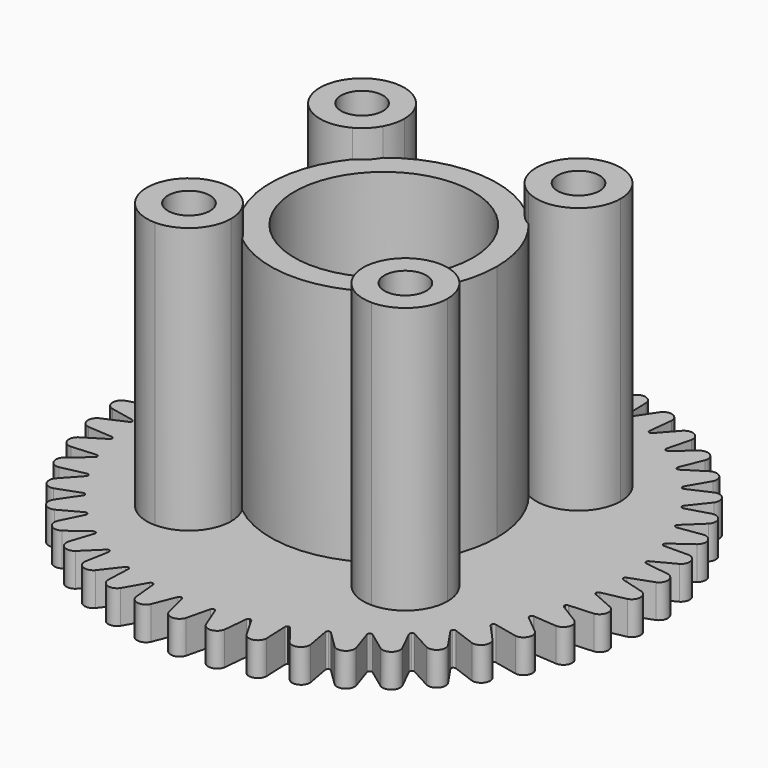
from build123d import *

# Parameters (mm, degrees)
F0_R     = 0.945
F0_R_2   = 4.025
F1_DEPTH = 12
F2_R     = 11.9
F3_DEPTH = 1.5
F4_R     = 12.2652949539
F4_R_2   = 11.9
F5_DEPTH = 13.501
F6_R     = 4.025
F6_R_2   = 0.945
F7_DEPTH = 1.25
F8_R     = 4.025
F9_DEPTH = 1.501


with BuildPart() as f1:
    # F0 (on Top) → F1 (new body)
    with BuildSketch(Plane.XY):
        with BuildLine():
            ThreePointArc((-2.975, 4.875), (-3.5314971157, 6.2185028843), (-4.875, 6.775))
            ThreePointArc((-4.875, 6.775), (-6.2185028843, 6.2185028843), (-6.775, 4.875))
            ThreePointArc((-6.775, 4.875), (-5.8451586479, 3.2413561594), (-3.9657450549, 3.2066908426))
            ThreePointArc((-3.9657450549, 3.2066908426), (-3.6062445841, 3.6062445841), (-3.2066908426, 3.9657450549))
            ThreePointArc((-3.2066908426, 3.9657450549), (-3.0338336035, 4.405845121), (-2.975, 4.875))
        make_face()
        with Locations((-4.875, 4.875)):
            Circle(F0_R, mode=Mode.SUBTRACT)
        with BuildLine():
            ThreePointArc((6.775, 4.875), (6.2185028843, 6.2185028843), (4.875, 6.775))
            ThreePointArc((4.875, 6.775), (3.2413561594, 5.8451586479), (3.2066908426, 3.9657450549))
            ThreePointArc((3.2066908426, 3.9657450549), (3.6062445841, 3.6062445841), (3.9657450549, 3.2066908426))
            ThreePointArc((3.9657450549, 3.2066908426), (5.8451586479, 3.2413561594), (6.775, 4.875))
        make_face()
        with Locations((4.875, 4.875)):
            Circle(F0_R, mode=Mode.SUBTRACT)
        with BuildLine():
            ThreePointArc((4.875, -6.775), (6.2185028843, -6.2185028843), (6.775, -4.875))
            ThreePointArc((6.775, -4.875), (5.8451586479, -3.2413561594), (3.9657450549, -3.2066908426))
            ThreePointArc((3.9657450549, -3.2066908426), (3.6062445841, -3.6062445841), (3.2066908426, -3.9657450549))
            ThreePointArc((3.2066908426, -3.9657450549), (3.2413561594, -5.8451586479), (4.875, -6.775))
        make_face()
        with Locations((4.875, -4.875)):
            Circle(F0_R, mode=Mode.SUBTRACT)
        with BuildLine():
            ThreePointArc((-3.9657450549, -3.2066908426), (-5.8451586479, -3.2413561594), (-6.775, -4.875))
            ThreePointArc((-6.775, -4.875), (-6.2185028843, -6.2185028843), (-4.875, -6.775))
            ThreePointArc((-4.875, -6.775), (-3.5314971157, -6.2185028843), (-2.975, -4.875))
            ThreePointArc((-2.975, -4.875), (-3.0338336035, -4.405845121), (-3.2066908426, -3.9657450549))
            ThreePointArc((-3.2066908426, -3.9657450549), (-3.6062445841, -3.6062445841), (-3.9657450549, -3.2066908426))
        make_face()
        with Locations((-4.875, -4.875)):
            Circle(F0_R, mode=Mode.SUBTRACT)
        with BuildLine():
            ThreePointArc((-3.2066908426, 3.9657450549), (-3.5314971157, 3.5314971157), (-3.9657450549, 3.2066908426))
            ThreePointArc((-3.9657450549, 3.2066908426), (-5.1, 0), (-3.9657450549, -3.2066908426))
            ThreePointArc((-3.9657450549, -3.2066908426), (-3.5314971157, -3.5314971157), (-3.2066908426, -3.9657450549))
            ThreePointArc((-3.2066908426, -3.9657450549), (0, -5.1), (3.2066908426, -3.9657450549))
            ThreePointArc((3.2066908426, -3.9657450549), (3.5314971157, -3.5314971157), (3.9657450549, -3.2066908426))
            ThreePointArc((3.9657450549, -3.2066908426), (4.8080817266, -1.7006910684), (5.1, 0))
            ThreePointArc((5.1, 0), (4.8080817266, 1.7006910684), (3.9657450549, 3.2066908426))
            ThreePointArc((3.9657450549, 3.2066908426), (3.5314971157, 3.5314971157), (3.2066908426, 3.9657450549))
            ThreePointArc((3.2066908426, 3.9657450549), (0, 5.1), (-3.2066908426, 3.9657450549))
        make_face()
        Circle(F0_R_2, mode=Mode.SUBTRACT)
        with BuildLine():
            ThreePointArc((-3.2066908426, 3.9657450549), (-3.6062445841, 3.6062445841), (-3.9657450549, 3.2066908426))
            ThreePointArc((-3.9657450549, 3.2066908426), (-3.5314971157, 3.5314971157), (-3.2066908426, 3.9657450549))
        make_face()
        with BuildLine():
            ThreePointArc((3.9657450549, 3.2066908426), (3.6062445841, 3.6062445841), (3.2066908426, 3.9657450549))
            ThreePointArc((3.2066908426, 3.9657450549), (3.5314971157, 3.5314971157), (3.9657450549, 3.2066908426))
        make_face()
        with BuildLine():
            ThreePointArc((3.2066908426, -3.9657450549), (3.6062445841, -3.6062445841), (3.9657450549, -3.2066908426))
            ThreePointArc((3.9657450549, -3.2066908426), (3.5314971157, -3.5314971157), (3.2066908426, -3.9657450549))
        make_face()
        with BuildLine():
            ThreePointArc((-3.2066908426, -3.9657450549), (-3.5314971157, -3.5314971157), (-3.9657450549, -3.2066908426))
            ThreePointArc((-3.9657450549, -3.2066908426), (-3.6062445841, -3.6062445841), (-3.2066908426, -3.9657450549))
        make_face()
    extrude(amount=F1_DEPTH)

    # F6 (on face) → F7 (cut)
    with BuildSketch(Plane.XY.offset(12)):
        with BuildLine():
            ThreePointArc((-3.2066908426, 3.9657450549), (-3.5314971157, 3.5314971157), (-3.9657450549, 3.2066908426))
            ThreePointArc((-3.9657450549, 3.2066908426), (-5.1, 0), (-3.9657450549, -3.2066908426))
            ThreePointArc((-3.9657450549, -3.2066908426), (-3.5314971157, -3.5314971157), (-3.2066908426, -3.9657450549))
            ThreePointArc((-3.2066908426, -3.9657450549), (0, -5.1), (3.2066908426, -3.9657450549))
            ThreePointArc((3.2066908426, -3.9657450549), (3.5314971157, -3.5314971157), (3.9657450549, -3.2066908426))
            ThreePointArc((3.9657450549, -3.2066908426), (5.1, 0), (3.9657450549, 3.2066908426))
            ThreePointArc((3.9657450549, 3.2066908426), (3.5314971157, 3.5314971157), (3.2066908426, 3.9657450549))
            ThreePointArc((3.2066908426, 3.9657450549), (0, 5.1), (-3.2066908426, 3.9657450549))
        make_face()
        Circle(F6_R, mode=Mode.SUBTRACT)
        with Locations((4.875, -4.875)):
            Circle(F6_R_2)
        with Locations((-4.875, -4.875)):
            Circle(F6_R_2)
        with Locations((-4.875, 4.875)):
            Circle(F6_R_2)
        with Locations((4.875, 4.875)):
            Circle(F6_R_2)
    extrude(amount=-F7_DEPTH, mode=Mode.SUBTRACT)


with BuildPart() as f3:
    # F2 (on face) → F3 (new body)
    with BuildSketch(Plane(origin=(0, 0, 0), x_dir=(1, 0, 0), z_dir=(0, 0, -1))):
        Circle(F2_R)
    extrude(amount=F3_DEPTH)

    # F4 (on face) → F5 (cut, through all)
    with BuildSketch(Plane(origin=(0, 0, -1.5), x_dir=(1, 0, 0), z_dir=(0, 0, -1))):
        Circle(F4_R)
        Circle(F4_R_2, mode=Mode.SUBTRACT)
        Circle(F4_R_2)
        with BuildLine():
            ThreePointArc((-0.8370743463, 10.5468031706), (-0.7943829694, 10.4973360796), (-0.7325650276, 10.4761679709))
            ThreePointArc((-0.7325650276, 10.4761679709), (-0.674294725, 10.5057334677), (-0.6389033061, 10.5606606397))
            Line((-0.6389033061, 10.5606606397), (-0.634802172, 10.5775341683))
            Line((-0.634802172, 10.5775341683), (-0.3812572284, 11.6207085161))
            ThreePointArc((-0.3812572284, 11.6207085161), (0.0009931521, 11.8979200939), (0.3817666741, 11.6186833894))
            Line((0.3817666741, 11.6186833894), (0.6389033061, 10.5606606397))
            ThreePointArc((0.6389033061, 10.5606606397), (0.674294725, 10.5057334677), (0.7325650276, 10.4761679709))
            ThreePointArc((0.7325650276, 10.4761679709), (0.7943829694, 10.4973360796), (0.8370743463, 10.5468031706))
            Line((0.8370743463, 10.5468031706), (0.8434839098, 10.5629417197))
            Line((0.8434839098, 10.5629417197), (1.2397431803, 11.5606773304))
            ThreePointArc((1.2397431803, 11.5606773304), (1.6568539212, 11.7819921333), (1.9950595435, 11.4524795094))
            Line((1.9950595435, 11.4524795094), (2.1024454325, 10.3689668619))
            ThreePointArc((2.1024454325, 10.3689668619), (2.1298480397, 10.3096487039), (2.1834365378, 10.2722612778))
            ThreePointArc((2.1834365378, 10.2722612778), (2.247598903, 10.2846199853), (2.2967592988, 10.3276641746))
            Line((2.2967592988, 10.3276641746), (2.3053525367, 10.3427536257))
            Line((2.3053525367, 10.3427536257), (2.8366133982, 11.2756307105))
            ThreePointArc((2.8366133982, 11.2756307105), (3.2804659135, 11.4367410977), (3.5695208482, 11.0633661428))
            Line((3.5695208482, 11.0633661428), (3.52506585, 9.9754529388))
            ThreePointArc((3.52506585, 9.9754529388), (3.5439462849, 9.9128983552), (3.5918099394, 9.8684167035))
            ThreePointArc((3.5918099394, 9.8684167035), (3.6570678805, 9.8717254615), (3.7117404441, 9.9075089431))
            Line((3.7117404441, 9.9075089431), (3.7223500989, 9.921255597))
            Line((3.7223500989, 9.921255597), (4.3782721628, 10.7711167647))
            ThreePointArc((4.3782721628, 10.7711167647), (4.8402273681, 10.8688869058), (5.0745054898, 10.4589169387))
            Line((5.0745054898, 10.4589169387), (4.8790748704, 9.3877781711))
            ThreePointArc((4.8790748704, 9.3877781711), (4.8890656469, 9.3232047157), (4.9302728462, 9.2724946232))
            ThreePointArc((4.9302728462, 9.2724946232), (4.9953561916, 9.2666890305), (5.0544767836, 9.2945153195))
            Line((5.0544767836, 9.2945153195), (5.0668963504, 9.3066516134))
            Line((5.0668963504, 9.3066516134), (5.83471284, 10.056955283))
            ThreePointArc((5.83471284, 10.056955283), (6.3057793028, 10.0894821934), (6.4807206542, 9.6508968131))
            Line((6.4807206542, 9.6508968131), (6.1381182484, 8.6173809797))
            ThreePointArc((6.1381182484, 8.6173809797), (6.1390249072, 8.5520455014), (6.1727736001, 8.4960939823))
            ThreePointArc((6.1727736001, 8.4960939823), (6.2364155765, 8.4812870383), (6.2988334819, 8.5006145276))
            Line((6.2988334819, 8.5006145276), (6.3128212281, 8.5109042423))
            Line((6.3128212281, 8.5109042423), (7.1775874687, 9.1470466064))
            ThreePointArc((7.1775874687, 9.1470466064), (7.648596416, 9.1136971867), (7.7607959629, 8.6550329589))
            Line((7.7607959629, 8.6550329589), (7.2776901366, 7.6792562697))
            ThreePointArc((7.2776901366, 7.6792562697), (7.2694950308, 7.6144304493), (7.2951283373, 7.5543265363))
            ThreePointArc((7.2951283373, 7.5543265363), (7.3560902261, 7.5308064412), (7.4205905514, 7.5412589433))
            Line((7.4205905514, 7.5412589433), (7.4358742212, 7.5495018012))
            Line((7.4358742212, 7.5495018012), (8.3807585217, 8.0591010721))
            ThreePointArc((8.3807585217, 8.0591010721), (8.8425423002, 7.960524431), (8.8898162058, 7.490708733))
            Line((8.8898162058, 7.490708733), (8.2756100646, 6.5916635714))
            ThreePointArc((8.2756100646, 6.5916635714), (8.2584727026, 6.5286091697), (8.2754916995, 6.4655227171))
            ThreePointArc((8.2754916995, 6.4655227171), (8.3325869469, 6.4337472629), (8.3979142665, 6.4351213317))
            Line((8.3979142665, 6.4351213317), (8.4141963808, 6.4411568949))
            Line((8.4141963808, 6.4411568949), (9.420807643, 6.8142943026))
            ThreePointArc((9.420807643, 6.8142943026), (9.8643781567, 6.6524091222), (9.8458062884, 6.1805863822))
            Line((9.8458062884, 6.1805863822), (9.1124546561, 5.3757716397))
            ThreePointArc((9.1124546561, 5.3757716397), (9.086708597, 5.3157159388), (9.0947820291, 5.2508748527))
            ThreePointArc((9.0947820291, 5.2508748527), (9.1468993409, 5.2114625124), (9.2117821329, 5.2037314032))
            Line((9.2117821329, 5.2037314032), (9.2287457789, 5.2074421964))
            Line((9.2287457789, 5.2074421964), (10.2774914596, 5.4368550457))
            ThreePointArc((10.2774914596, 5.4368550457), (10.6942151129, 5.2148122368), (10.610158951, 4.7501659478))
            Line((10.610158951, 4.7501659478), (9.7719356829, 4.0552464278))
            ThreePointArc((9.7719356829, 4.0552464278), (9.7380820446, 3.9993583438), (9.7370527715, 3.934024682))
            ThreePointArc((9.7370527715, 3.934024682), (9.7831777436, 3.887742572), (9.8463531384, 3.8710567621))
            Line((9.8463531384, 3.8710567621), (9.8636681379, 3.8723705589))
            Line((9.8636681379, 3.8723705589), (10.9341355954, 3.9535935896))
            ThreePointArc((10.9341355954, 3.9535935896), (11.3159013365, 3.675714963), (11.1679969384, 3.2272889364))
            Line((11.1679969384, 3.2272889364), (10.2412170971, 2.6557904569))
            ThreePointArc((10.2412170971, 2.6557904569), (10.1999148021, 2.6051577877), (10.1898028576, 2.5406031958))
            ThreePointArc((10.1898028576, 2.5406031958), (10.2290377198, 2.4883521447), (10.2892760801, 2.4630364043))
            Line((10.2892760801, 2.4630364043), (10.3066054164, 2.4619276332))
            Line((10.3066054164, 2.4619276332), (11.3779592192, 2.3933799314))
            ThreePointArc((11.3779592192, 2.3933799314), (11.7173364122, 2.0650740784), (11.5084625689, 1.6415964169))
            Line((11.5084625689, 1.6415964169), (10.5111648697, 1.2046425457))
            ThreePointArc((10.5111648697, 1.2046425457), (10.4632178202, 1.1602507987), (10.4442200217, 1.0977317583))
            ThreePointArc((10.4442200217, 1.0977317583), (10.4758011122, 1.0405287734), (10.5319299667, 1.0070758447))
            Line((10.5319299667, 1.0070758447), (10.548936344, 1.0035660865))
            Line((10.548936344, 1.0035660865), (11.6003238091, 0.7865818553))
            ThreePointArc((11.6003238091, 0.7865818553), (11.8907068629, 0.414238876), (11.6249290662, 0.0239520904))
            Line((11.6249290662, 0.0239520904), (10.5765247744, -0.2699523623))
            ThreePointArc((10.5765247744, -0.2699523623), (10.5228662052, -0.3072391524), (10.4953523232, -0.3665057792))
            ThreePointArc((10.4953523232, -0.3665057792), (10.5186649519, -0.4275473069), (10.5695918165, -0.4684863008))
            Line((10.5695918165, -0.4684863008), (10.5859442249, -0.4743287325))
            Line((10.5859442249, -0.4743287325), (11.5969012911, -0.8355261419))
            ThreePointArc((11.5969012911, -0.8355261419), (11.83263823, -1.244659015), (11.5151295423, -1.5941584362))
            Line((11.5151295423, -1.5941584362), (10.4360246549, -1.7392929547))
            ThreePointArc((10.4360246549, -1.7392929547), (10.3776989691, -1.7687490429), (10.3422045301, -1.8236096987))
            ThreePointArc((10.3422045301, -1.8236096987), (10.3567949431, -1.8873016652), (10.4015285842, -1.9349298933))
            Line((10.4015285842, -1.9349298933), (10.4169087429, -1.9429912822))
            Line((10.4169087429, -1.9429912822), (11.3677582809, -2.4413715731))
            ThreePointArc((11.3677582809, -2.4413715731), (11.5442607534, -2.879331034), (11.1812011202, -3.1812404823))
            Line((11.1812011202, -3.1812404823), (10.0923991864, -3.1747801882))
            ThreePointArc((10.0923991864, -3.1747801882), (10.030541627, -3.1958322451), (9.9877574898, -3.2452191296))
            ThreePointArc((9.9877574898, -3.2452191296), (9.9933417015, -3.3103218434), (10.0310114297, -3.3637122764))
            Line((10.0310114297, -3.3637122764), (10.0451199812, -3.3738357168))
            Line((10.0451199812, -3.3738357168), (10.9173547863, -3.9996984837))
            ThreePointArc((10.9173547863, -3.9996984837), (11.0311873726, -4.4579601497), (10.6296433367, -4.7064033009))
            Line((10.6296433367, -4.7064033009), (9.5523366476, -4.5484739365))
            ThreePointArc((9.5523366476, -4.5484739365), (9.4881512017, -4.5607122079), (9.4389101109, -4.6036640616))
            ThreePointArc((9.4389101109, -4.6036640616), (9.4353794309, -4.6689103723), (9.4652520478, -4.7270238262))
            Line((9.4652520478, -4.7270238262), (9.4778143852, -4.7390122768))
            Line((9.4778143852, -4.7390122768), (10.2544573991, -5.4801758129))
            ThreePointArc((10.2544573991, -5.4801758129), (10.3034044774, -5.9498201419), (9.8711916367, -6.1399613328))
            Line((9.8711916367, -6.1399613328), (8.8263487416, -5.8336368135))
            ThreePointArc((8.8263487416, -5.8336368135), (8.7610847059, -5.8368230954), (8.7063450833, -5.8725039093))
            ThreePointArc((8.7063450833, -5.8725039093), (8.6937682323, -5.9366238717), (8.7152623013, -5.9983292341))
            Line((8.7152623013, -5.9983292341), (8.7260339131, -6.0119493534))
            Line((8.7260339131, -6.0119493534), (9.3919686629, -6.8539877535))
            ThreePointArc((9.3919686629, -6.8539877535), (9.375077534, -7.3258736528), (8.9206084198, -7.4540120014))
            Line((8.9206084198, -7.4540120014), (7.9285659972, -7.0052545856))
            ThreePointArc((7.9285659972, -7.0052545856), (7.8634936618, -6.9993268605), (7.804320952, -7.0270421482))
            ThreePointArc((7.804320952, -7.0270421482), (7.782942724, -7.0887877401), (7.7956398876, -7.1528839865))
            Line((7.7956398876, -7.1528839865), (7.8044111165, -7.1678706743))
            Line((7.8044111165, -7.1678706743), (8.3466759399, -8.0943946188))
            ThreePointArc((8.3466759399, -8.0943946188), (8.2642753704, -8.5593373662), (7.796395707, -8.6229788053))
            Line((7.796395707, -8.6229788053), (6.8764627343, -8.0405230455))
            ThreePointArc((6.8764627343, -8.0405230455), (6.8128486582, -8.0255966899), (6.7503945907, -8.0448070048))
            ThreePointArc((6.7503945907, -8.0448070048), (6.7206310886, -8.1029764186), (6.7242842109, -8.1682159883))
            Line((6.7242842109, -8.1682159883), (6.730884335, -8.1842775459))
            Line((6.730884335, -8.1842775459), (7.1389246639, -9.1772533))
            ThreePointArc((7.1389246639, -9.1772533), (6.9926184872, -9.6262033138), (6.5204350201, -9.6241091351))
            Line((6.5204350201, -9.6241091351), (5.690516946, -8.9192918703))
            ThreePointArc((5.690516946, -8.9192918703), (5.629599305, -8.8956574088), (5.565079477, -8.905988844))
            ThreePointArc((5.565079477, -8.905988844), (5.5275100136, -8.9594498782), (5.5220479908, -9.0245629572))
            Line((5.5220479908, -9.0245629572), (5.5263485462, -9.0413867645))
            Line((5.5263485462, -9.0413867645), (5.7922223398, -10.0814871848))
            ThreePointArc((5.7922223398, -10.0814871848), (5.5848582391, -10.5057061636), (5.1175614824, -10.437917128))
            Line((5.1175614824, -10.437917128), (4.3938117183, -9.6244568244))
            ThreePointArc((4.3938117183, -9.6244568244), (4.3367762049, -9.5925742748), (4.2714464216, -9.5938257407))
            ThreePointArc((4.2714464216, -9.5938257407), (4.2268022437, -9.641537837), (4.2123313877, -9.7052570734))
            Line((4.2123313877, -9.7052570734), (4.214248669, -9.7225156742))
            Line((4.214248669, -9.7225156742), (4.3327809964, -10.789496389))
            ThreePointArc((4.3327809964, -10.789496389), (4.0683950781, -11.1807273929), (3.6150804315, -11.0485629369))
            Line((3.6150804315, -11.0485629369), (3.0115859434, -10.142292674))
            ThreePointArc((3.0115859434, -10.142292674), (2.959542689, -10.102782594), (2.8946745202, -10.0949297321))
            ThreePointArc((2.8946745202, -10.0949297321), (2.843824576, -10.135964229), (2.8206265457, -10.1970494002))
            Line((2.8206265457, -10.1970494002), (2.8201232351, -10.2144068755))
            Line((2.8201232351, -10.2144068755), (2.7890069993, -11.2875003189))
            ThreePointArc((2.7890069993, -11.2875003189), (2.4727452346, -11.6381284815), (2.0422359522, -11.4441610357))
            Line((2.0422359522, -11.4441610357), (1.5707430738, -10.4627203335))
            ThreePointArc((1.5707430738, -10.4627203335), (1.5247050411, -10.4163517417), (1.461561072, -10.3995473992))
            ThreePointArc((1.461561072, -10.3995473992), (1.4054950978, -10.4331056067), (1.3740214164, -10.4903677594))
            Line((1.3740214164, -10.4903677594), (1.3711073103, -10.5074862657))
            Line((1.3711073103, -10.5074862657), (1.1909481534, -11.5658058944))
            ThreePointArc((1.1909481534, -11.5658058944), (0.8289662178, -11.8690066373), (0.4296416731, -11.6170115576))
            Line((0.4296416731, -11.6170115576), (0.0993274769, -10.5795030428))
            ThreePointArc((0.0993274769, -10.5795030428), (0.0601907438, -10.5271784512), (0, -10.5017497054))
            ThreePointArc((0, -10.5017497054), (-0.0601907438, -10.5271784512), (-0.0993274769, -10.5795030428))
            Line((-0.0993274769, -10.5795030428), (-0.1045956586, -10.5960493878))
            Line((-0.1045956586, -10.5960493878), (-0.4302911436, -11.618996214))
            ThreePointArc((-0.4302911436, -11.618996214), (-0.8309476835, -11.8688680797), (-1.1913150925, -11.5637501636))
            Line((-1.1913150925, -11.5637501636), (-1.3740214164, -10.4903677594))
            ThreePointArc((-1.3740214164, -10.4903677594), (-1.4054950978, -10.4331056067), (-1.461561072, -10.3995473992))
            ThreePointArc((-1.461561072, -10.3995473992), (-1.5247050411, -10.4163517417), (-1.5707430738, -10.4627203335))
            Line((-1.5707430738, -10.4627203335), (-1.5782627921, -10.4783724613))
            Line((-1.5782627921, -10.4783724613), (-2.0431553129, -11.4460359888))
            ThreePointArc((-2.0431553129, -11.4460359888), (-2.4746881333, -11.6377155056), (-2.7890842649, -11.2854135263))
            Line((-2.7890842649, -11.2854135263), (-2.8206265457, -10.1970494002))
            ThreePointArc((-2.8206265457, -10.1970494002), (-2.843824576, -10.135964229), (-2.8946745202, -10.0949297321))
            ThreePointArc((-2.8946745202, -10.0949297321), (-2.959542689, -10.102782594), (-3.0115859434, -10.142292674))
            Line((-3.0115859434, -10.142292674), (-3.0212108356, -10.1567459339))
            Line((-3.0212108356, -10.1567459339), (-3.6162517881, -11.0502916928))
            ThreePointArc((-3.6162517881, -11.0502916928), (-4.0702615935, -11.1800480369), (-4.3325670846, -10.7874191516))
            Line((-4.3325670846, -10.7874191516), (-4.2123313877, -9.7052570734))
            ThreePointArc((-4.2123313877, -9.7052570734), (-4.2268022437, -9.641537837), (-4.2714464216, -9.5938257407))
            ThreePointArc((-4.2714464216, -9.5938257407), (-4.3367762049, -9.5925742748), (-4.3938117183, -9.6244568244))
            Line((-4.3938117183, -9.6244568244), (-4.4053544467, -9.6374299001))
            Line((-4.4053544467, -9.6374299001), (-5.1189620357, -10.4394660384))
            ThreePointArc((-5.1189620357, -10.4394660384), (-5.5866120416, -10.5047736502), (-5.7917214143, -10.0794599337))
            Line((-5.7917214143, -10.0794599337), (-5.5220479908, -9.0245629572))
            ThreePointArc((-5.5220479908, -9.0245629572), (-5.5275100136, -8.9594498782), (-5.565079477, -8.905988844))
            ThreePointArc((-5.565079477, -8.905988844), (-5.629599305, -8.8956574088), (-5.690516946, -8.9192918703))
            Line((-5.690516946, -8.9192918703), (-5.7037528445, -8.9305322556))
            Line((-5.7037528445, -8.9305322556), (-6.52203751, -9.6254480524))
            ThreePointArc((-6.52203751, -9.6254480524), (-6.994225441, -9.6250357935), (-7.1381464746, -9.1753154934))
            Line((-7.1381464746, -9.1753154934), (-6.7242842109, -8.1682159883))
            ThreePointArc((-6.7242842109, -8.1682159883), (-6.7206310886, -8.1029764186), (-6.7503945907, -8.0448070048))
            ThreePointArc((-6.7503945907, -8.0448070048), (-6.8128486582, -8.0255966899), (-6.8764627343, -8.0405230455))
            Line((-6.8764627343, -8.0405230455), (-6.8911341812, -8.0498119591))
            Line((-6.8911341812, -8.0498119591), (-7.7981689428, -8.6240816688))
            ThreePointArc((-7.7981689428, -8.6240816688), (-8.2657041981, -8.5579575634), (-8.3456356333, -8.0925839738))
            Line((-8.3456356333, -8.0925839738), (-7.7956398876, -7.1528839865))
            ThreePointArc((-7.7956398876, -7.1528839865), (-7.782942724, -7.0887877401), (-7.804320952, -7.0270421482))
            ThreePointArc((-7.804320952, -7.0270421482), (-7.8634936618, -6.9993268605), (-7.9285659972, -7.0052545856))
            Line((-7.9285659972, -7.0052545856), (-7.9443874295, -7.0124112294))
            Line((-7.9443874295, -7.0124112294), (-8.9225178875, -7.4548573452))
            ThreePointArc((-8.9225178875, -7.4548573452), (-9.376300425, -7.3243084238), (-9.3906864874, -6.8523395123))
            Line((-9.3906864874, -6.8523395123), (-8.7152623013, -5.9983292341))
            ThreePointArc((-8.7152623013, -5.9983292341), (-8.6937682323, -5.9366238717), (-8.7063450833, -5.8725039093))
            ThreePointArc((-8.7063450833, -5.8725039093), (-8.7610847059, -5.8368230954), (-8.8263487416, -5.8336368135))
            Line((-8.8263487416, -5.8336368135), (-8.8430122131, -5.8385218915))
            Line((-8.8430122131, -5.8385218915), (-9.8732001707, -6.1405327032))
            ThreePointArc((-9.8732001707, -6.1405327032), (-10.3043976295, -5.948099952), (-10.2529583108, -5.4787220566))
            Line((-10.2529583108, -5.4787220566), (-9.4652520478, -4.7270238262))
            ThreePointArc((-9.4652520478, -4.7270238262), (-9.4353794309, -4.6689103723), (-9.4389101109, -4.6036640616))
            ThreePointArc((-9.4389101109, -4.6036640616), (-9.4881512017, -4.5607122079), (-9.5523366476, -4.5484739365))
            Line((-9.5523366476, -4.5484739365), (-9.5695178228, -4.5509923663))
            Line((-9.5695178228, -4.5509923663), (-10.6317118432, -4.7066895769))
            ThreePointArc((-10.6317118432, -4.7066895769), (-11.0319314553, -4.4561184805), (-10.9156679632, -3.998467508))
            Line((-10.9156679632, -3.998467508), (-10.0310114297, -3.3637122764))
            ThreePointArc((-10.0310114297, -3.3637122764), (-9.9933417015, -3.3103218434), (-9.9877574898, -3.2452191296))
            ThreePointArc((-9.9877574898, -3.2452191296), (-10.030541627, -3.1958322451), (-10.0923991864, -3.1747801882))
            Line((-10.0923991864, -3.1747801882), (-10.1097636533, -3.1748829513))
            Line((-10.1097636533, -3.1748829513), (-11.1832893381, -3.1812360917))
            ThreePointArc((-11.1832893381, -3.1812360917), (-11.5447412839, -2.8774037316), (-11.3659165552, -2.4403873376))
            Line((-11.3659165552, -2.4403873376), (-10.4015285842, -1.9349298933))
            ThreePointArc((-10.4015285842, -1.9349298933), (-10.3567949431, -1.8873016652), (-10.3422045301, -1.8236096987))
            ThreePointArc((-10.3422045301, -1.8236096987), (-10.3776989691, -1.7687490429), (-10.4360246549, -1.7392929547))
            Line((-10.4360246549, -1.7392929547), (-10.4532344339, -1.7369780511))
            Line((-10.4532344339, -1.7369780511), (-11.5171968268, -1.5938634647))
            ThreePointArc((-11.5171968268, -1.5938634647), (-11.8328458554, -1.242683592), (-11.5949405099, -0.8348078035))
            Line((-11.5949405099, -0.8348078035), (-10.5695918165, -0.4684863008))
            ThreePointArc((-10.5695918165, -0.4684863008), (-10.5186649519, -0.4275473069), (-10.4953523232, -0.3665057792))
            ThreePointArc((-10.4953523232, -0.3665057792), (-10.5228662052, -0.3072391524), (-10.5765247744, -0.2699523623))
            Line((-10.5765247744, -0.2699523623), (-10.5932448966, -0.2652648489))
            Line((-10.5932448966, -0.2652648489), (-11.6269351798, 0.0245319018))
            ThreePointArc((-11.6269351798, 0.0245319018), (-11.8906375419, 0.4162239702), (-11.5982821366, 0.7870203148))
            Line((-11.5982821366, 0.7870203148), (-10.5319299667, 1.0070758447))
            ThreePointArc((-10.5319299667, 1.0070758447), (-10.4758011122, 1.0405287734), (-10.4442200217, 1.0977317583))
            ThreePointArc((-10.4442200217, 1.0977317583), (-10.4632178202, 1.1602507987), (-10.5111648697, 1.2046425457))
            Line((-10.5111648697, 1.2046425457), (-10.5270698971, 1.2116114319))
            Line((-10.5270698971, 1.2116114319), (-11.5103684651, 1.6424497826))
            ThreePointArc((-11.5103684651, 1.6424497826), (-11.7169914941, 2.0670302062), (-11.3758763944, 2.393529978))
            Line((-11.3758763944, 2.393529978), (-10.2892760801, 2.4630364043))
            ThreePointArc((-10.2892760801, 2.4630364043), (-10.2290377198, 2.4883521447), (-10.1898028576, 2.5406031958))
            ThreePointArc((-10.1898028576, 2.5406031958), (-10.1999148021, 2.6051577877), (-10.2412170971, 2.6557904569))
            Line((-10.2412170971, 2.6557904569), (-10.2559974563, 2.6649050743))
            Line((-10.2559974563, 2.6649050743), (-11.169765521, 3.2283992467))
            ThreePointArc((-11.169765521, 3.2283992467), (-11.3152875348, 3.6776040505), (-10.932052158, 3.9534523027))
            Line((-10.932052158, 3.9534523027), (-9.8463531384, 3.8710567621))
            ThreePointArc((-9.8463531384, 3.8710567621), (-9.7831777436, 3.887742572), (-9.7370527715, 3.934024682))
            ThreePointArc((-9.7370527715, 3.934024682), (-9.7380820446, 3.9993583438), (-9.7719356829, 4.0552464278))
            Line((-9.7719356829, 4.0552464278), (-9.7853036912, 4.0663293708))
            Line((-9.7853036912, 4.0663293708), (-10.6117557965, 4.7515115917))
            ThreePointArc((-10.6117557965, 4.7515115917), (-10.6933443745, 5.2165975151), (-10.2754479615, 5.4364251754))
            Line((-10.2754479615, 5.4364251754), (-9.2117821329, 5.2037314032))
            ThreePointArc((-9.2117821329, 5.2037314032), (-9.1468993409, 5.2114625124), (-9.0947820291, 5.2508748527))
            ThreePointArc((-9.0947820291, 5.2508748527), (-9.086708597, 5.3157159388), (-9.1124546561, 5.3757716397))
            Line((-9.1124546561, 5.3757716397), (-9.1241501202, 5.3886071914))
            Line((-9.1241501202, 5.3886071914), (-9.8472003161, 6.1821411684))
            ThreePointArc((-9.8472003161, 6.1821411684), (-9.8632674295, 6.6540558429), (-9.4188438585, 6.8135842158))
            Line((-9.4188438585, 6.8135842158), (-8.3979142665, 6.4351213317))
            ThreePointArc((-8.3979142665, 6.4351213317), (-8.3325869469, 6.4337472629), (-8.2754916995, 6.4655227171))
            ThreePointArc((-8.2754916995, 6.4655227171), (-8.2584727026, 6.5286091697), (-8.2756100646, 6.5916635714))
            Line((-8.2756100646, 6.5916635714), (-8.2854053458, 6.6060019025))
            Line((-8.2854053458, 6.6060019025), (-8.8909802825, 7.4924423992))
            ThreePointArc((-8.8909802825, 7.4924423992), (-8.8412132032, 7.9620005427), (-8.3789126735, 8.0581245898))
            Line((-8.3789126735, 8.0581245898), (-7.4205905514, 7.5412589433))
            ThreePointArc((-7.4205905514, 7.5412589433), (-7.3560902261, 7.5308064412), (-7.2951283373, 7.5543265363))
            ThreePointArc((-7.2951283373, 7.5543265363), (-7.2694950308, 7.6144304493), (-7.2776901366, 7.6792562697))
            Line((-7.2776901366, 7.6792562697), (-7.2853945808, 7.6948183008))
            Line((-7.2853945808, 7.6948183008), (-7.7617074311, 8.6569117613))
            ThreePointArc((-7.7617074311, 8.6569117613), (-7.6470748187, 9.1149739584), (-7.1758954843, 9.1458227347))
            Line((-7.1758954843, 9.1458227347), (-6.2988334819, 8.5006145276))
            ThreePointArc((-6.2988334819, 8.5006145276), (-6.2364155765, 8.4812870383), (-6.1727736001, 8.4960939823))
            ThreePointArc((-6.1727736001, 8.4960939823), (-6.1390249072, 8.5520455014), (-6.1381182484, 8.6173809797))
            Line((-6.1381182484, 8.6173809797), (-6.1435818973, 8.6338638135))
            Line((-6.1435818973, 8.6338638135), (-6.4813617734, 9.6528841831))
            ThreePointArc((-6.4813617734, 9.6528841831), (-6.3040948213, 10.0905347742), (-5.8332076519, 10.0555078433))
            Line((-5.8332076519, 10.0555078433), (-5.0544767836, 9.2945153195))
            ThreePointArc((-5.0544767836, 9.2945153195), (-4.9953561916, 9.2666890305), (-4.9302728462, 9.2724946232))
            ThreePointArc((-4.9302728462, 9.2724946232), (-4.8890656469, 9.3232047157), (-4.8790748704, 9.3877781711))
            Line((-4.8790748704, 9.3877781711), (-4.8821913804, 9.4048609881))
            Line((-4.8821913804, 9.4048609881), (-5.0748637812, 10.4609741942))
            ThreePointArc((-5.0748637812, 10.4609741942), (-4.838412789, 10.8696948085), (-4.3769830677, 10.7694739296))
            Line((-4.3769830677, 10.7694739296), (-3.7117404441, 9.9075089431))
            ThreePointArc((-3.7117404441, 9.9075089431), (-3.6570678805, 9.8717254615), (-3.5918099394, 9.8684167035))
            ThreePointArc((-3.5918099394, 9.8684167035), (-3.5439462849, 9.9128983552), (-3.52506585, 9.9754529388))
            Line((-3.52506585, 9.9754529388), (-3.5257745617, 9.9928032413))
            Line((-3.5257745617, 9.9928032413), (-3.569589338, 11.0654532419))
            ThreePointArc((-3.569589338, 11.0654532419), (-3.2785565553, 11.4372885974), (-2.8355654869, 11.273824456))
            Line((-2.8355654869, 11.273824456), (-2.2967592988, 10.3276641746))
            ThreePointArc((-2.2967592988, 10.3276641746), (-2.247598903, 10.2846199853), (-2.1834365378, 10.2722612778))
            ThreePointArc((-2.1834365378, 10.2722612778), (-2.1298480397, 10.3096487039), (-2.1024454325, 10.3689668619))
            Line((-2.1024454325, 10.3689668619), (-2.1007325517, 10.3862469461))
            Line((-2.1007325517, 10.3862469461), (-1.9948368988, 11.4545558289))
            ThreePointArc((-1.9948368988, 11.4545558289), (-1.6548869476, 11.7822685734), (-1.2389568493, 11.5587428132))
            Line((-1.2389568493, 11.5587428132), (-0.8370743463, 10.5468031706))
        make_face(mode=Mode.SUBTRACT)
    extrude(amount=-F5_DEPTH, mode=Mode.SUBTRACT)

    # F8 (on face) → F9 (cut, through all)
    with BuildSketch(Plane.XY):
        Circle(F8_R)
    extrude(amount=-F9_DEPTH, mode=Mode.SUBTRACT)


solid = Compound([f1.part, f3.part])
